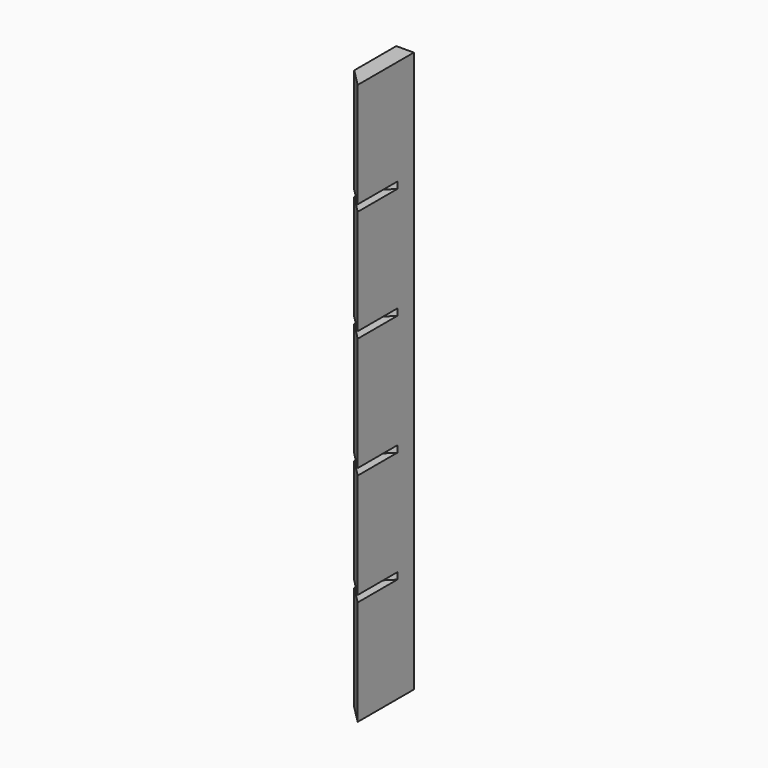
from build123d import *

# Parameters (mm, degrees)
F1_DEPTH = 457.2
F2_DEPTH = 50.8
F4_DEPTH = 35.922024


with BuildPart() as f1:
    # F0 (on Top) → F1 (new body)
    with BuildSketch(Plane.XY):
        Polygon((-12.7, 12.7), (0, 0), (0, 50.8), (-12.7, 50.8), align=None)
    extrude(amount=F1_DEPTH)

    # F1_face (on face) → F2 (cut)
    with BuildSketch(Plane(origin=(-6.047619, 28.42381, 0), x_dir=(1, 0, 0), z_dir=(0, 0, -1))):
        Polygon((6.047619, 28.42381), (-6.652381, 15.72381), (-6.652381, -22.37619), (6.047619, -22.37619), align=None)
        Polygon((-6.652381, 15.72381), (6.047619, 28.42381), (6.047619, -22.37619), (-6.652381, -22.37619), align=None)
    extrude(amount=-F2_DEPTH, mode=Mode.SUBTRACT)

    # F3 (on face) → F4 (cut, through all)
    with BuildSketch(Plane(origin=(0, 0, 0), x_dir=(0.707107, -0.707107, 0), z_dir=(-0.707107, -0.707107, 0))):
        Polygon((3.225248, 381), (0, 381), (-25.4, 381), (-25.4, 376.2375), (0, 376.2375), (3.225248, 376.2375), align=None)
        Polygon((5.052605, 300.0375), (0, 300.0375), (-25.4, 300.0375), (-25.4, 295.275), (5.052605, 295.275), align=None)
        Polygon((-25.4, 207.9625), (0, 207.9625), (8.918187, 207.9625), (8.918187, 212.725), (-25.4, 212.725), align=None)
        Polygon((-25.4, 127), (0, 127), (10.666735, 127), (10.666735, 131.7625), (0, 131.7625), (-25.4, 131.7625), align=None)
    extrude(amount=-F4_DEPTH, mode=Mode.SUBTRACT)


solid = f1.part
